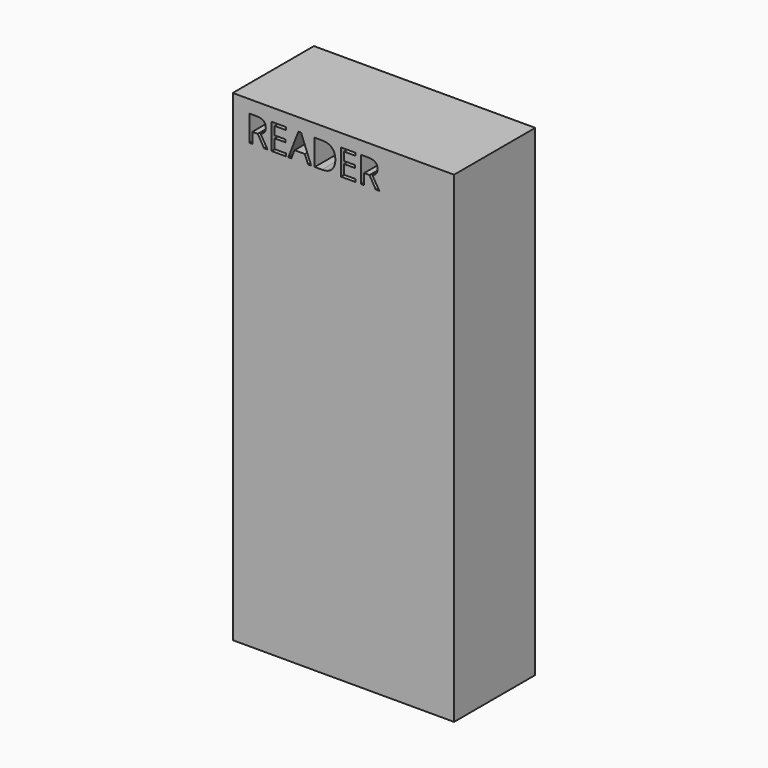
from build123d import *

# Parameters (mm, degrees)
F0_W     = 45.974
F0_H     = 100.076
F1_DEPTH = 21.082


with BuildPart() as f1:
    # F0 (on Front) → F1 (new body)
    with BuildSketch(Plane.XZ):
        Rectangle(F0_W, F0_H)
        with BuildLine():
            Line((-17.7857931137, 44.2633313295), (-18.9050379284, 44.2633313295))
            Line((-18.9050379284, 44.2633313295), (-18.9050379284, 42.034227401))
            Line((-18.9050379284, 42.034227401), (-19.5280138157, 42.034227401))
            Line((-19.5280138157, 42.034227401), (-19.5280138157, 47.3946357427))
            Line((-19.5280138157, 47.3946357427), (-18.0579784355, 47.3946357427))
            add(Edge.make_bspline(
                [(-18.0579784355, 47.3946357427), (-17.071306644, 47.3946357427), (-16.6002617876, 47.0168612875)],
                knots=[0, 0, 0, 1, 1, 1], degree=2))
            add(Edge.make_bspline(
                [(-16.6002617876, 47.0168612875), (-16.1292169311, 46.6390868322), (-16.1292169311, 45.8800182839)],
                knots=[0, 0, 0, 1, 1, 1], degree=2))
            add(Edge.make_bspline(
                [(-16.1292169311, 45.8800182839), (-16.1292169311, 44.8170876738), (-17.2073993049, 44.4428328564)],
                knots=[0, 0, 0, 1, 1, 1], degree=2))
            Line((-17.2073993049, 44.4428328564), (-15.7514424759, 42.034227401))
            Line((-15.7514424759, 42.034227401), (-16.4882199848, 42.034227401))
            Line((-16.4882199848, 42.034227401), (-17.7857931137, 44.2633313295))
        make_face(mode=Mode.SUBTRACT)
        Polygon((-11.8986123174, 42.5915033831), (-11.8986123174, 42.034227401), (-14.8867847941, 42.034227401), (-14.8867847941, 47.3946357427), (-11.8986123174, 47.3946357427), (-11.8986123174, 46.8408793984), (-14.2638089067, 46.8408793984), (-14.2638089067, 45.1139104601), (-12.0417442538, 45.1139104601), (-12.0417442538, 44.5636737536), (-14.2638089067, 44.5636737536), (-14.2638089067, 42.5915033831), align=None, mode=Mode.SUBTRACT)
        Polygon((-6.6965876758, 42.034227401), (-7.3418546025, 42.034227401), (-8.0094125685, 43.7389053), (-10.157564828, 43.7389053), (-10.8169103057, 42.034227401), (-11.4480986813, 42.034227401), (-9.3292767366, 47.416926782), (-8.8048507071, 47.416926782), align=None, mode=Mode.SUBTRACT)
        with BuildLine():
            add(Edge.make_bspline(
                [(-2.3738858735, 46.701853706), (-1.6811038367, 46.0090716693), (-1.6811038367, 44.7654663197)],
                knots=[0, 0, 0, 1, 1, 1], degree=2))
            add(Edge.make_bspline(
                [(-1.6811038367, 44.7654663197), (-1.6811038367, 43.438562876), (-2.4014563694, 42.7363951385)],
                knots=[0, 0, 0, 1, 1, 1], degree=2))
            add(Edge.make_bspline(
                [(-2.4014563694, 42.7363951385), (-3.1218089021, 42.034227401), (-4.4745230229, 42.034227401)],
                knots=[0, 0, 0, 1, 1, 1], degree=2))
            Line((-4.4745230229, 42.034227401), (-5.9598101668, 42.034227401))
            Line((-5.9598101668, 42.034227401), (-5.9598101668, 47.3946357427))
            Line((-5.9598101668, 47.3946357427), (-4.3173125353, 47.3946357427))
            add(Edge.make_bspline(
                [(-4.3173125353, 47.3946357427), (-3.0666679102, 47.3946357427), (-2.3738858735, 46.701853706)],
                knots=[0, 0, 0, 1, 1, 1], degree=2))
        make_face(mode=Mode.SUBTRACT)
        Polygon((2.5025722732, 42.5915033831), (2.5025722732, 42.034227401), (-0.4856002035, 42.034227401), (-0.4856002035, 47.3946357427), (2.5025722732, 47.3946357427), (2.5025722732, 46.8408793984), (0.1373756839, 46.8408793984), (0.1373756839, 45.1139104601), (2.3594403368, 45.1139104601), (2.3594403368, 44.5636737536), (0.1373756839, 44.5636737536), (0.1373756839, 42.5915033831), align=None, mode=Mode.SUBTRACT)
        with BuildLine():
            Line((5.4320841203, 44.2633313295), (4.3128393057, 44.2633313295))
            Line((4.3128393057, 44.2633313295), (4.3128393057, 42.034227401))
            Line((4.3128393057, 42.034227401), (3.6898634183, 42.034227401))
            Line((3.6898634183, 42.034227401), (3.6898634183, 47.3946357427))
            Line((3.6898634183, 47.3946357427), (5.1598987985, 47.3946357427))
            add(Edge.make_bspline(
                [(5.1598987985, 47.3946357427), (6.14657059, 47.3946357427), (6.6176154465, 47.0168612875)],
                knots=[0, 0, 0, 1, 1, 1], degree=2))
            add(Edge.make_bspline(
                [(6.6176154465, 47.0168612875), (7.0886603029, 46.6390868322), (7.0886603029, 45.8800182839)],
                knots=[0, 0, 0, 1, 1, 1], degree=2))
            add(Edge.make_bspline(
                [(7.0886603029, 45.8800182839), (7.0886603029, 44.8170876738), (6.0104779291, 44.4428328564)],
                knots=[0, 0, 0, 1, 1, 1], degree=2))
            Line((6.0104779291, 44.4428328564), (7.4664347582, 42.034227401))
            Line((7.4664347582, 42.034227401), (6.7296572492, 42.034227401))
            Line((6.7296572492, 42.034227401), (5.4320841203, 44.2633313295))
        make_face(mode=Mode.SUBTRACT)
    extrude(amount=F1_DEPTH)


solid = f1.part
